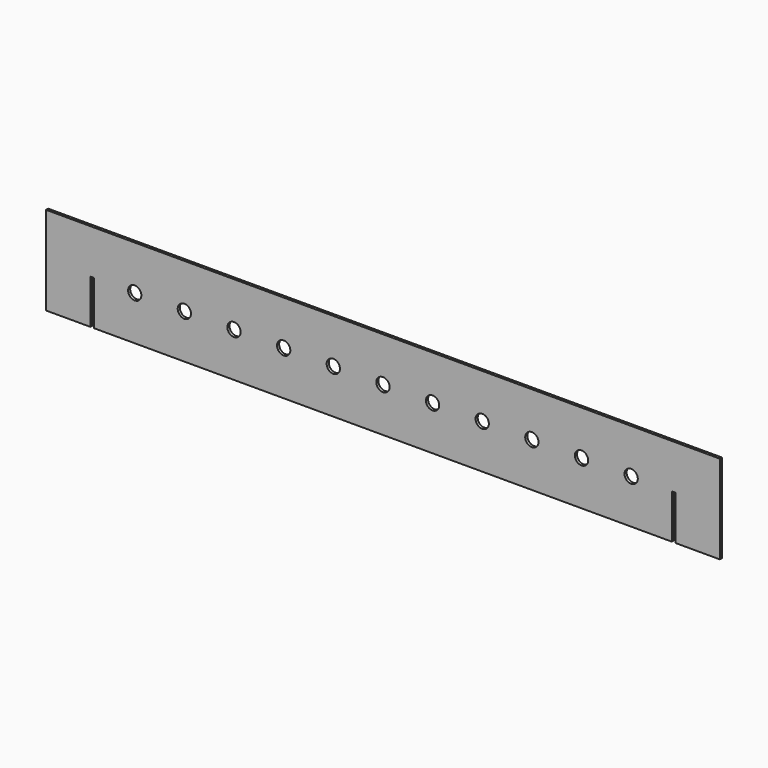
from build123d import *

# Parameters (mm, degrees)
F0_R     = 7.5
F1_DEPTH = 3


with BuildPart() as f1:
    # F0 (on Front) → F1 (new body)
    with BuildSketch(Plane.XZ):
        Polygon((488.101249, -40.227087), (-271.898751, -40.227087), (-271.898751, -140.227087), (-221.898751, -140.227087), (-221.898751, -90.227087), (-217.898751, -90.227087), (-217.898751, -140.227087), (434.101249, -140.227087), (434.101249, -90.227087), (438.101249, -90.227087), (438.101249, -140.227087), (488.101249, -140.227087), align=None)
        with Locations((-171.898751, -90.227087)):
            Circle(F0_R, mode=Mode.SUBTRACT)
        with Locations((-115.898751, -90.227087)):
            Circle(F0_R, mode=Mode.SUBTRACT)
        with Locations((-59.898751, -90.227087)):
            Circle(F0_R, mode=Mode.SUBTRACT)
        with Locations((-3.898751, -90.227087)):
            Circle(F0_R, mode=Mode.SUBTRACT)
        with Locations((52.101249, -90.227087)):
            Circle(F0_R, mode=Mode.SUBTRACT)
        with Locations((108.101249, -90.227087)):
            Circle(F0_R, mode=Mode.SUBTRACT)
        with Locations((164.101249, -90.227087)):
            Circle(F0_R, mode=Mode.SUBTRACT)
        with Locations((220.101249, -90.227087)):
            Circle(F0_R, mode=Mode.SUBTRACT)
        with Locations((276.101249, -90.227087)):
            Circle(F0_R, mode=Mode.SUBTRACT)
        with Locations((332.101249, -90.227087)):
            Circle(F0_R, mode=Mode.SUBTRACT)
        with Locations((388.101249, -90.227087)):
            Circle(F0_R, mode=Mode.SUBTRACT)
    extrude(amount=F1_DEPTH)


solid = f1.part
